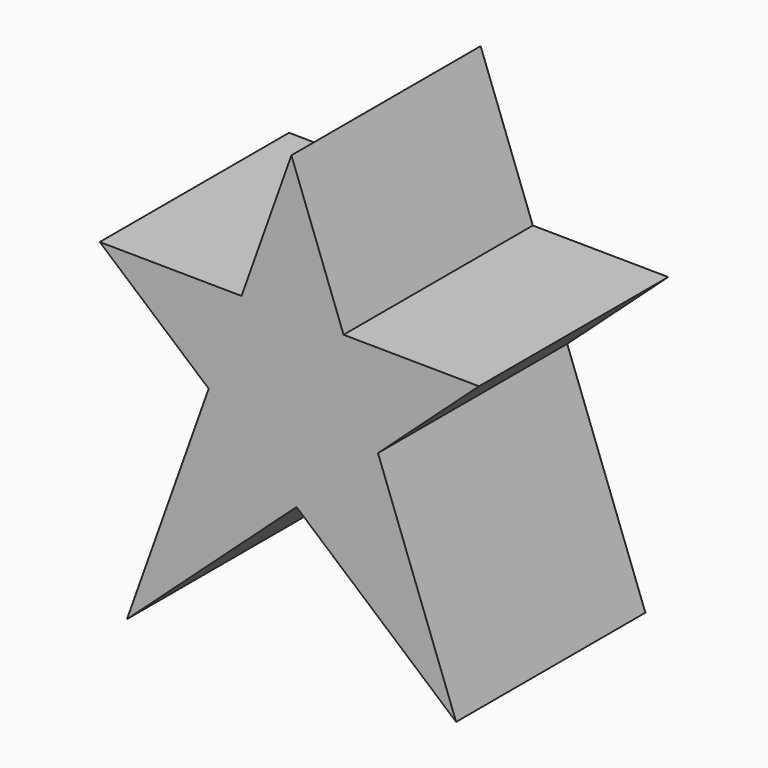
from build123d import *

# Parameters (mm, degrees)
F1_DEPTH = 25.4
F2_DEPTH = 25.4
F3_DEPTH = 25.4


with BuildPart() as f1:
    # F0 (on Front) → F1 (new body)
    with BuildSketch(Plane.XZ):
        Polygon((-26.643926605, 1.6362958008), (1.6566294677, -22.7132987456), (27.8896984995, 1.0984393185), (16.8050068003, 31.0555305972), (-16.0558851046, 31.375344584), align=None)
        Polygon((-61.7250166833, 31.8198129535), (-26.643926605, 1.6362958008), (-16.0558851046, 31.375344584), align=None)
        Polygon((0, 76.4721408486), (-16.0558851046, 31.375344584), (16.8050068003, 31.0555305972), align=None)
        Polygon((16.8050068003, 31.0555305972), (27.8896984995, 1.0984393185), (60.4253225029, 30.6310020387), align=None)
        Polygon((27.8896984995, 1.0984393185), (1.6566294677, -22.7132987456), (53.0678555369, -66.9471472502), align=None)
        Polygon((-26.643926605, 1.6362958008), (-52.9653020203, -72.293587029), (1.6566294677, -22.7132987456), align=None)
    extrude(amount=F1_DEPTH)

    # F2 (add): a face of the model
    f2_faces = [f1.faces().sort_by_distance(p)[0] for p in [
        (-0.3182282883, -25.4, 0.0475680349),
    ]]
    extrude(f2_faces, amount=F2_DEPTH)

    # F3 (add): a face of the model
    f3_faces = [f1.faces().sort_by_distance(p)[0] for p in [
        (-0.3182282883, 0, 0.0475680349),
    ]]
    extrude(f3_faces, amount=F3_DEPTH)


solid = f1.part
